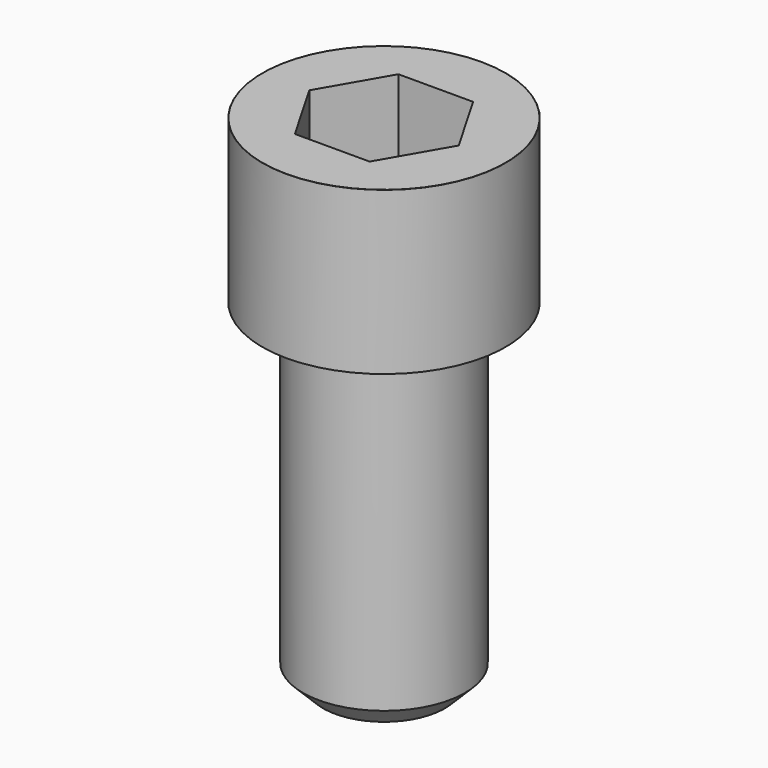
from build123d import *

# Parameters (mm, degrees)
POCKET_DEPTH = 19.15


with BuildPart() as part:
    # Sketch → Revolve (revolve)
    with BuildSketch(Plane.YZ):
        with BuildLine():
            Line((11.999, 0), (18, 0))
            Line((18, 0), (18, 23.97229))
            ThreePointArc((18, 23.97229), (17.991884, 23.991884), (17.97229, 24))
            Line((17.97229, 24), (0, 24))
            Line((0, -50), (0, 24))
            Line((9, -50), (0, -50))
            Line((12, -47), (9, -50))
            Line((12, -0.2), (12, -47))
            Line((11.999, 0), (12, -0.2))
        make_face()
    revolve(axis=Axis((0, 0, 0), (0, 0, 1)))

    # Sketch001 → Pocket (cut)
    with BuildSketch(Plane.XY.offset(24)):
        Polygon((11.056258, 0), (5.528129, 9.575), (-5.528129, 9.575), (-11.056258, 0), (-5.528129, -9.575), (5.528129, -9.575), align=None)
    extrude(amount=-POCKET_DEPTH, mode=Mode.SUBTRACT)


solid = part.part
